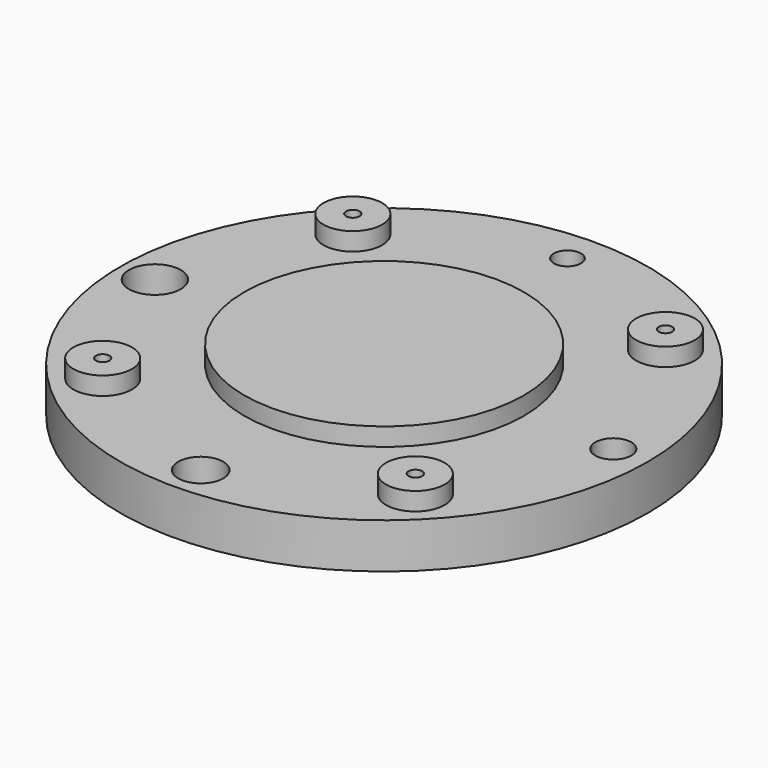
from build123d import *

# Parameters (mm, degrees)
F0_R     = 58.5
F0_R_2   = 6.5
F0_R_3   = 5
F0_R_4   = 5.75
F0_R_5   = 31
F0_R_6   = 4
F0_R_7   = 3
F0_R_8   = 1.5
F1_DEPTH = 10
F2_DEPTH = 4


with BuildPart() as f1:
    # F0 (on Top) → F1 (new body)
    with BuildSketch(Plane.XY):
        Circle(F0_R)
        with Locations((-34.648232, -34.648232)):
            Circle(F0_R_2, mode=Mode.SUBTRACT)
        with Locations((0, -50.8)):
            Circle(F0_R_3, mode=Mode.SUBTRACT)
        with Locations((34.648232, -34.648232)):
            Circle(F0_R_2, mode=Mode.SUBTRACT)
        with Locations((-50.8, 0)):
            Circle(F0_R_4, mode=Mode.SUBTRACT)
        with Locations((-34.648232, 34.648232)):
            Circle(F0_R_2, mode=Mode.SUBTRACT)
        Circle(F0_R_5, mode=Mode.SUBTRACT)
        with Locations((50.8, 0)):
            Circle(F0_R_6, mode=Mode.SUBTRACT)
        with Locations((0, 50.8)):
            Circle(F0_R_7, mode=Mode.SUBTRACT)
        with Locations((34.648232, 34.648232)):
            Circle(F0_R_2, mode=Mode.SUBTRACT)
        with Locations((-34.648232, 34.648232)):
            Circle(F0_R_2)
        with Locations((-34.648232, 34.648232)):
            Circle(F0_R_8, mode=Mode.SUBTRACT)
        with Locations((34.648232, 34.648232)):
            Circle(F0_R_2)
        with Locations((34.648232, 34.648232)):
            Circle(F0_R_8, mode=Mode.SUBTRACT)
        with Locations((34.648232, -34.648232)):
            Circle(F0_R_2)
        with Locations((34.648232, -34.648232)):
            Circle(F0_R_8, mode=Mode.SUBTRACT)
        with Locations((-34.648232, -34.648232)):
            Circle(F0_R_2)
        with Locations((-34.648232, -34.648232)):
            Circle(F0_R_8, mode=Mode.SUBTRACT)
        Circle(F0_R_5)
    extrude(amount=-F1_DEPTH)

    # F0 (on Top) → F2 (join)
    with BuildSketch(Plane.XY):
        with Locations((-34.648232, 34.648232)):
            Circle(F0_R_2)
        with Locations((-34.648232, 34.648232)):
            Circle(F0_R_8, mode=Mode.SUBTRACT)
        with Locations((34.648232, 34.648232)):
            Circle(F0_R_2)
        with Locations((34.648232, 34.648232)):
            Circle(F0_R_8, mode=Mode.SUBTRACT)
        with Locations((34.648232, -34.648232)):
            Circle(F0_R_2)
        with Locations((34.648232, -34.648232)):
            Circle(F0_R_8, mode=Mode.SUBTRACT)
        with Locations((-34.648232, -34.648232)):
            Circle(F0_R_2)
        with Locations((-34.648232, -34.648232)):
            Circle(F0_R_8, mode=Mode.SUBTRACT)
        Circle(F0_R_5)
    extrude(amount=F2_DEPTH)


solid = f1.part
